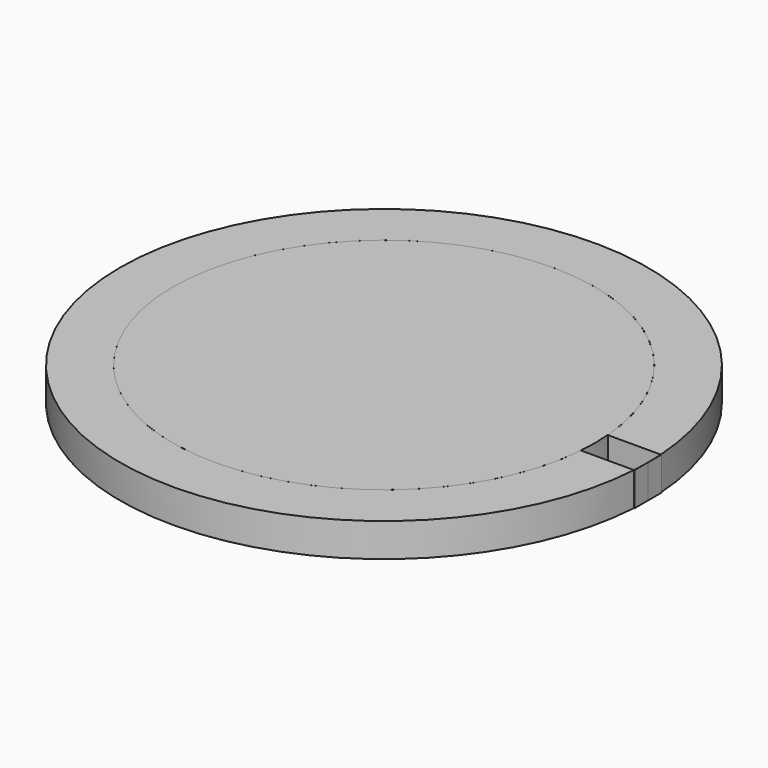
from build123d import *

# Parameters (mm, degrees)
F0_R     = 40
F1_DEPTH = 6.35
F3_DEPTH = 6.35


with BuildPart() as f1:
    # F0 (on Top) → F1 (new body)
    with BuildSketch(Plane.XY):
        Circle(F0_R)
    extrude(amount=F1_DEPTH)


with BuildPart() as f3:
    # F2 (on Top) → F3 (new body, through all)
    with BuildSketch(Plane.XY):
        with BuildLine():
            Line((50, 3.175), (49.8990919256, 3.175))
            ThreePointArc((49.8990919256, 3.175), (49.9747666142, 1.5883015645), (50, 0))
            Line((50, 0), (50, 3.175))
        make_face()
    extrude(amount=F3_DEPTH)


with BuildPart() as f3b:
    # F2 (on Top) → F3, piece 2 (new body, through all)
    with BuildSketch(Plane.XY):
        with BuildLine():
            ThreePointArc((50, 0), (49.9747666142, -1.5883015645), (49.8990919256, -3.175))
            Line((49.8990919256, -3.175), (50, -3.175))
            Line((50, -3.175), (50, 0))
        make_face()
    extrude(amount=F3_DEPTH)


with BuildPart() as f3c:
    # F2 (on Top) → F3, piece 3 (new body, through all)
    with BuildSketch(Plane.XY):
        with BuildLine():
            ThreePointArc((39.8737930852, -3.175), (-40, 0), (39.8737930852, 3.175))
            Line((39.8737930852, 3.175), (49.8990919256, 3.175))
            ThreePointArc((49.8990919256, 3.175), (-50, 0), (49.8990919256, -3.175))
            Line((49.8990919256, -3.175), (39.8737930852, -3.175))
        make_face()
    extrude(amount=F3_DEPTH)


solid = Compound([f1.part, f3.part, f3b.part, f3c.part])
